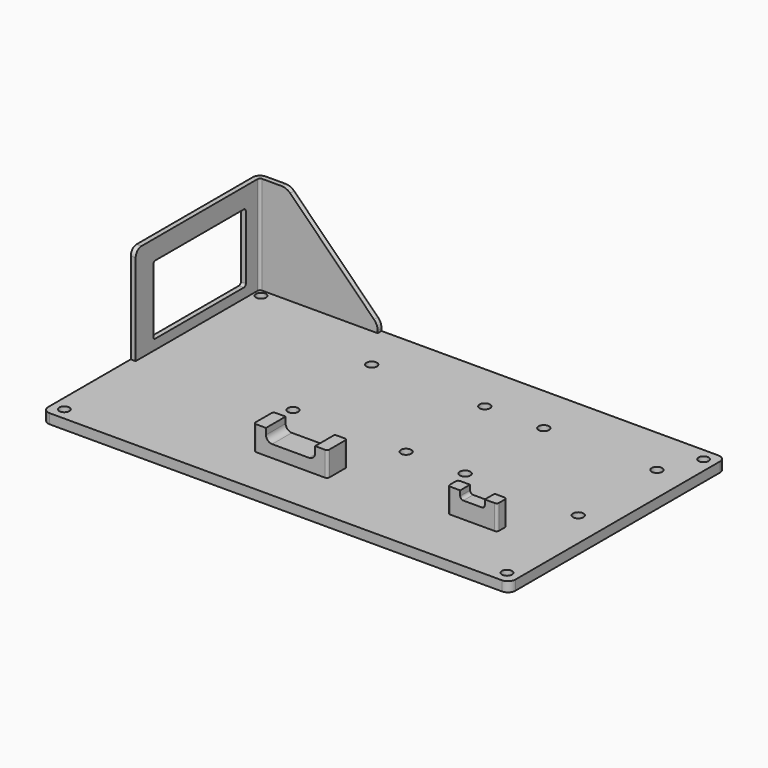
from build123d import *

# Parameters (mm, degrees)
SKETCH_W        = 190
SKETCH_H        = 110
SKETCH_R        = 2.125
PAD_DEPTH       = 4
PAD001_DEPTH    = 40
SKETCH002_R     = 2.05
POCKET_DEPTH    = 4.001
SKETCH003_W     = 30
SKETCH003_H     = 10
SKETCH003_W_2   = 20
SKETCH003_H_2   = 5
PAD002_DEPTH    = 10
POCKET001_DEPTH = 30.001
SKETCH005_W     = 47
SKETCH005_H     = 28
POCKET002_DEPTH = 5
FILLET_R        = 1
FILLET001_R     = 3
FILLET002_R     = 1
FILLET003_R     = 3
CHAMFER_SIZE    = 37
FILLET004_R     = 5
FILLET005_R     = 1


with BuildPart() as part:
    # Sketch → Pad (new body)
    with BuildSketch(Plane.XY):
        Rectangle(SKETCH_W, SKETCH_H)
        with Locations((-33, 35)):
            Circle(SKETCH_R, mode=Mode.SUBTRACT)
        with Locations((-33, -5)):
            Circle(SKETCH_R, mode=Mode.SUBTRACT)
        with Locations((13, -5)):
            Circle(SKETCH_R, mode=Mode.SUBTRACT)
        with Locations((13, 35)):
            Circle(SKETCH_R, mode=Mode.SUBTRACT)
        with Locations((37, 35)):
            Circle(SKETCH_R, mode=Mode.SUBTRACT)
        with Locations((37, -5)):
            Circle(SKETCH_R, mode=Mode.SUBTRACT)
        with Locations((83, -5)):
            Circle(SKETCH_R, mode=Mode.SUBTRACT)
        with Locations((83, 35)):
            Circle(SKETCH_R, mode=Mode.SUBTRACT)
    extrude(amount=PAD_DEPTH)

    # Sketch001 (on Face14 of Pad) → Pad001 (join)
    with BuildSketch(Plane.XY.offset(4)):
        Polygon((-95, -10), (-95, 55), (-45, 55), (-45, 53), (-93, 53), (-93, -10), align=None)
    extrude(amount=PAD001_DEPTH)

    # Sketch002 (on Face6 of Pad001) → Pocket (cut, through all)
    with BuildSketch(Plane.XY.offset(4)):
        with Locations((-90, 50)):
            Circle(SKETCH002_R)
        with Locations((-90, -50)):
            Circle(SKETCH002_R)
        with Locations((90, -50)):
            Circle(SKETCH002_R)
        with Locations((90, 50)):
            Circle(SKETCH002_R)
    extrude(amount=-POCKET_DEPTH, mode=Mode.SUBTRACT)

    # Sketch003 (on Face6 of Pocket) → Pad002 (join)
    with BuildSketch(Plane.XY.offset(4)):
        with Locations((-10, -30)):
            Rectangle(SKETCH003_W, SKETCH003_H)
        with Locations((60, -27.5)):
            Rectangle(SKETCH003_W_2, SKETCH003_H_2)
    extrude(amount=PAD002_DEPTH)

    # Sketch004 (on Face30 of Pad002) → Pocket001 (cut, through all)
    with BuildSketch(Plane(origin=(0, -25, 0), x_dir=(-1, 0, 0), z_dir=(0, 1, 0))):
        with BuildLine():
            Line((0, 14), (20, 14))
            Line((20, 14), (20, 11.5))
            ThreePointArc((17.5, 9), (19.267767, 9.732233), (20, 11.5))
            Line((2.5, 9), (17.5, 9))
            ThreePointArc((0, 11.5), (0.732233, 9.732233), (2.5, 9))
            Line((0, 14), (0, 11.5))
        make_face()
        with BuildLine():
            Line((-65, 14), (-55, 14))
            Line((-55, 12), (-55, 14))
            ThreePointArc((-56.25, 10.75), (-55.366117, 11.116117), (-55, 12))
            Line((-63.75, 10.75), (-56.25, 10.75))
            ThreePointArc((-65, 12), (-64.633883, 11.116117), (-63.75, 10.75))
            Line((-65, 12), (-65, 14))
        make_face()
    extrude(amount=-POCKET001_DEPTH, mode=Mode.SUBTRACT)

    # Sketch005 (on Face8 of Pocket001) → Pocket002 (cut)
    with BuildSketch(Plane(origin=(-95, 0, 0), x_dir=(0, -1, 0), z_dir=(-1, 0, 0))):
        with Locations((-22.5, 22)):
            Rectangle(SKETCH005_W, SKETCH005_H)
    extrude(amount=-POCKET002_DEPTH, mode=Mode.SUBTRACT)

    # Fillet
    fillet_edges = [part.edges().sort_by_distance(p)[0] for p in [
        (-93, 53, 24),
    ]]
    fillet(fillet_edges, radius=FILLET_R)

    # Fillet001
    fillet001_edges = [part.edges().sort_by_distance(p)[0] for p in [
        (-95, 55, 24),
        (-95, -55, 2),
        (95, -55, 2),
        (95, 55, 2),
    ]]
    fillet(fillet001_edges, radius=FILLET001_R)

    # Fillet002
    fillet002_edges = [part.edges().sort_by_distance(p)[0] for p in [
        (-25, -25, 9),
        (-25, -35, 9),
        (5, -35, 9),
        (50, -25, 9),
        (50, -30, 9),
        (70, -30, 9),
        (70, -25, 9),
        (5, -25, 9),
    ]]
    fillet(fillet002_edges, radius=FILLET002_R)

    # Fillet003
    fillet003_edges = [part.edges().sort_by_distance(p)[0] for p in [
        (-94, -10, 44),
    ]]
    fillet(fillet003_edges, radius=FILLET003_R)

    # Chamfer
    chamfer_edges = [part.edges().sort_by_distance(p)[0] for p in [
        (-45, 54, 44),
    ]]
    chamfer(chamfer_edges, length=CHAMFER_SIZE)

    # Fillet004
    fillet004_edges = [part.edges().sort_by_distance(p)[0] for p in [
        (-45, 54, 7),
        (-82, 54, 44),
    ]]
    fillet(fillet004_edges, radius=FILLET004_R)

    # Fillet005
    fillet005_edges = [part.edges().sort_by_distance(p)[0] for p in [
        (-94, 46, 8),
        (-94, 46, 36),
        (-94, -1, 36),
        (-94, -1, 8),
    ]]
    fillet(fillet005_edges, radius=FILLET005_R)


solid = part.part
